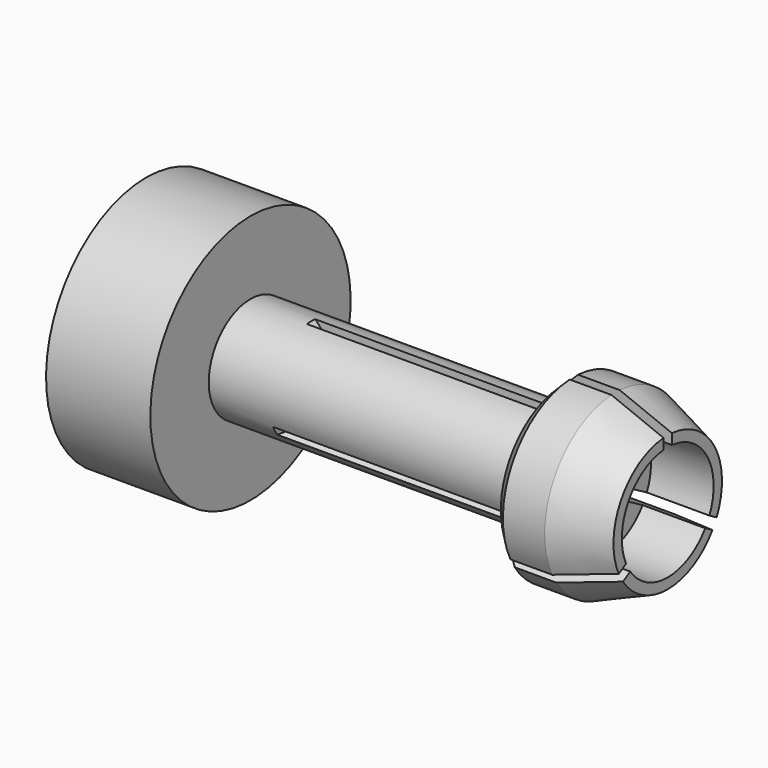
from build123d import *

# Parameters (mm, degrees)
F2_SIZE  = 1
F4_DEPTH = 0.5
F5_COUNT = 3


with BuildPart() as f1:
    # F0 (on Front) → F1 (revolve)
    with BuildSketch(Plane.XZ):
        Polygon((40, 5), (10, 5), (10, 12), (0, 12), (0, 0), (8.4978484524, 0), (10, 2.5), (44, 2.5), (44, 5.5), (50, 5.5), (50, 6.5), (45, 8.5), (40, 8.5), align=None)
    revolve(axis=Axis((4.2489242262, 0, 0), (1, 0, 0)))

    # F2
    f2_edges = [f1.edges().sort_by_distance(p)[0] for p in [
        (40, 0, -8.5),
    ]]
    chamfer(f2_edges, length=F2_SIZE)


with BuildPart() as f4:
    # F3 (on Front) → F4 (new body, symmetric)
    with BuildSketch(Plane.XZ):
        with BuildLine():
            Line((56.1913425727, 38), (31, 38))
            ThreePointArc((31, 38), (11, 18), (31, -2))
            Line((31, -2), (56.1913425727, -2))
            Line((56.1913425727, -2), (56.1913425727, 38))
        make_face()
    extrude(amount=F4_DEPTH, both=True)


with BuildPart() as f5_1:
    # F5: instance of F4
    add(f4.part.rotate(Axis((62.4550534707, 0, 0), (1, 0, 0)), 1 * 360 / F5_COUNT))


with BuildPart() as f5_2:
    # F5: instance of F4
    add(f4.part.rotate(Axis((62.4550534707, 0, 0), (1, 0, 0)), 2 * 360 / F5_COUNT))


with BuildPart() as f1_1:
    add(f1.part)

    # F6: cut F4, F5_1, F5_2
    add(f4.part, mode=Mode.SUBTRACT)
    add(f5_1.part, mode=Mode.SUBTRACT)
    add(f5_2.part, mode=Mode.SUBTRACT)


solid = f1_1.part
